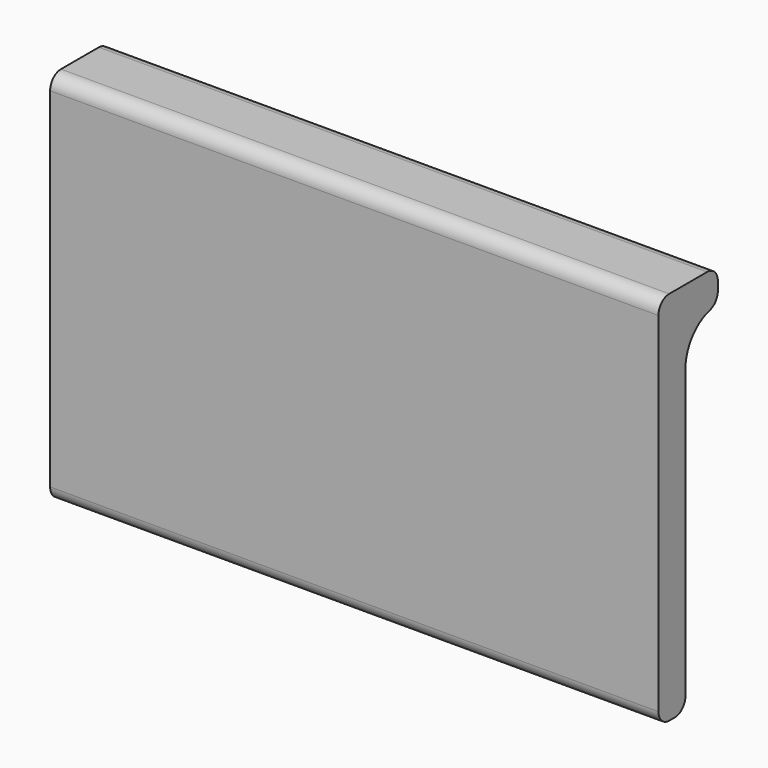
from build123d import *

# Parameters (mm, degrees)
F1_DEPTH = 57.15


with BuildPart() as f1:
    # F0 (on Right) → F1 (new body)
    with BuildSketch(Plane.YZ):
        with BuildLine():
            Line((0, 28.956), (0, 1.27))
            ThreePointArc((0, 1.27), (0.371974, 0.371974), (1.27, 0))
            Line((1.27, 0), (1.905, 0))
            ThreePointArc((1.905, 0), (2.803026, 0.371974), (3.175, 1.27))
            Line((3.175, 1.27), (3.175, 28.321))
            ThreePointArc((3.175, 28.321), (3.972931, 30.654139), (6.0325, 32.010017))
            ThreePointArc((6.0325, 32.010017), (6.719023, 32.461976), (6.985, 33.239689))
            Line((6.985, 33.239689), (6.985, 34.036))
            ThreePointArc((6.985, 34.036), (6.613026, 34.934026), (5.715, 35.306))
            Line((5.715, 35.306), (1.27, 35.306))
            ThreePointArc((1.27, 35.306), (0.371974, 34.934026), (0, 34.036))
            Line((0, 34.036), (0, 28.956))
        make_face()
    extrude(amount=F1_DEPTH)


solid = f1.part
